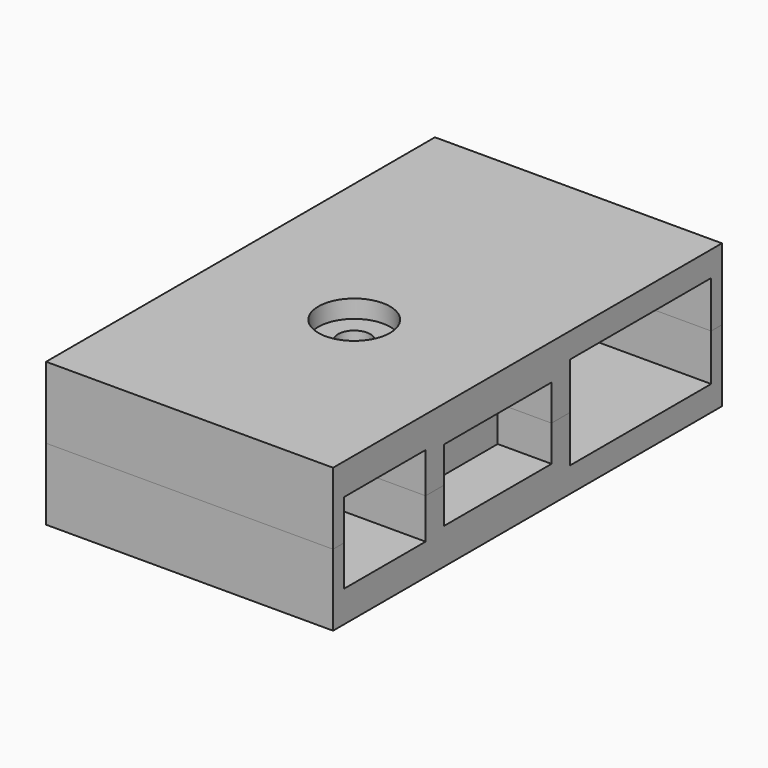
from build123d import *

# Parameters (mm, degrees)
F1_DEPTH  = 32
F3_DEPTH  = 3.6
F4_DEPTH  = 13.1
F2_W      = 15
F2_H      = 4
F5_DEPTH  = 26
F7_R      = 1.8
F8_DEPTH  = 16
F7_R_2    = 4
F9_DEPTH  = 2
F10_R     = 1.8
F11_DEPTH = 6.5


with BuildPart() as f1:
    # F0 (on Right) → F1 (new body)
    with BuildSketch(Plane.YZ):
        Polygon((-27.1, 8), (-27.1, 0), (-25.6, 0), (-25.6, 4.5), (-14.2, 4.5), (-14.2, 0), (-11.65, 0), (-11.65, 4), (3.35, 4), (3.35, 0), (5.9, 0), (5.9, 5.2), (25.6, 5.2), (25.6, 0), (27.1, 0), (27.1, 8), align=None)
    extrude(amount=-F1_DEPTH)

    # F2 (on face) → F3 (join)
    with BuildSketch(Plane(origin=(-32, 0, 0), x_dir=(0, -1, 0), z_dir=(-1, 0, 0))):
        with BuildLine():
            Line((-5.9, 5.2), (-15.75, 5.2))
            ThreePointArc((-15.75, 5.2), (-12.0730447378, 3.6769552622), (-10.55, 0))
            Line((-10.55, 0), (-5.9, 0))
            Line((-5.9, 0), (-5.9, 5.2))
        make_face()
        with BuildLine():
            Line((-25.6, 5.2), (-25.6, 0))
            Line((-25.6, 0), (-20.95, 0))
            ThreePointArc((-20.95, 0), (-19.4269552622, 3.6769552622), (-15.75, 5.2))
            Line((-15.75, 5.2), (-25.6, 5.2))
        make_face()
    extrude(amount=-F3_DEPTH)

    # F2 (on face) → F4 (join)
    with BuildSketch(Plane(origin=(-32, 0, 0), x_dir=(0, -1, 0), z_dir=(-1, 0, 0))):
        with BuildLine():
            Line((23.7, 0), (25.6, 0))
            Line((25.6, 0), (25.6, 4.5))
            Line((25.6, 4.5), (14.2, 4.5))
            Line((14.2, 4.5), (14.2, 0))
            Line((14.2, 0), (16.1, 0))
            ThreePointArc((16.1, 0), (19.9, 3.8), (23.7, 0))
        make_face()
    extrude(amount=-F4_DEPTH)

    # F2 (on face) → F5 (join)
    with BuildSketch(Plane(origin=(-32, 0, 0), x_dir=(0, -1, 0), z_dir=(-1, 0, 0))):
        with Locations((4.15, 2)):
            Rectangle(F2_W, F2_H)
    extrude(amount=-F5_DEPTH)


with BuildPart() as f6_1:
    # F6: instance of F1
    add(f1.part.mirror(Plane.XY))


with BuildPart() as f8_tool:
    # F7 (on face) → F8 (new body, through all)
    with BuildSketch(Plane.XY.offset(8)):
        with Locations((-16, -4.15)):
            Circle(F7_R)
    extrude(amount=-F8_DEPTH)


with BuildPart() as f1_1:
    add(f1.part)

    # F8: cut by f8_tool
    add(f8_tool.part, mode=Mode.SUBTRACT)

    # F7 (on face) → F9 (cut)
    with BuildSketch(Plane.XY.offset(8)):
        with Locations((-16, -4.15)):
            Circle(F7_R_2)
        with Locations((-16, -4.15)):
            Circle(F7_R, mode=Mode.SUBTRACT)
    extrude(amount=-F9_DEPTH, mode=Mode.SUBTRACT)


with BuildPart() as f6_1_1:
    add(f6_1.part)

    # F8: cut by f8_tool
    add(f8_tool.part, mode=Mode.SUBTRACT)

    # F10 (on face) → F11 (cut)
    with BuildSketch(Plane(origin=(0, 0, -8), x_dir=(1, 0, 0), z_dir=(0, 0, -1))):
        Polygon((-17.75, 1.1189110861), (-14.25, 1.1189110861), (-12.5, 4.1499999994), (-14.25, 7.1810889126), (-17.75, 7.1810889126), (-19.5, 4.1499999994), align=None)
        with Locations((-16, 4.1499999994)):
            Circle(F10_R, mode=Mode.SUBTRACT)
    extrude(amount=-F11_DEPTH, mode=Mode.SUBTRACT)


solid = Compound([f1_1.part, f6_1_1.part])
